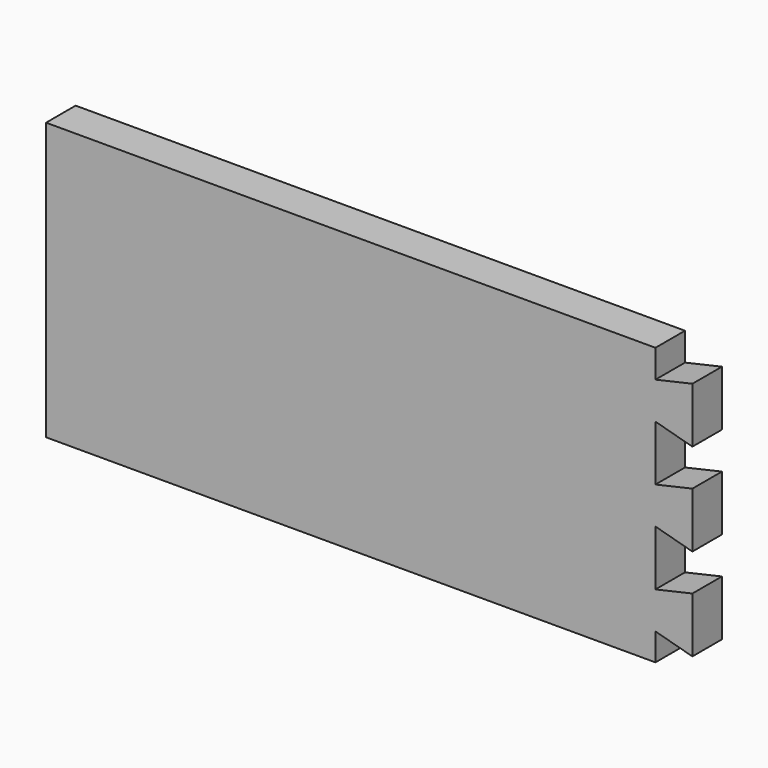
from build123d import *

# Parameters (mm, degrees)
F1_DEPTH = 20
F2_R     = 3.5
F3_DEPTH = 10


with BuildPart() as f1:
    # F0 (on Front) → F1 (new body)
    with BuildSketch(Plane.XZ):
        Polygon((-170.616764, -61.854899), (159.383236, -61.854899), (159.383236, -47.055752), (179.383236, -52.51336), (179.383236, -22.51336), (159.383236, -27.055752), (159.383236, 2.944248), (179.383236, -2.51336), (179.383236, 13.145101), (179.383236, 27.48664), (159.383236, 22.944248), (159.383236, 52.944248), (179.383236, 47.48664), (179.383236, 77.48664), (159.383236, 72.944248), (159.383236, 88.145101), (-170.616764, 88.145101), align=None)
    extrude(amount=F1_DEPTH)

    # F2 (on face) → F3 (cut)
    with BuildSketch(Plane(origin=(-170.616764, 0, 0), x_dir=(0, -1, 0), z_dir=(-1, 0, 0))):
        with Locations((10, 13.145101)):
            Circle(F2_R)
        with Locations((10, 43.145101)):
            Circle(F2_R)
        with Locations((10, -16.854899)):
            Circle(F2_R)
    extrude(amount=-F3_DEPTH, mode=Mode.SUBTRACT)


solid = f1.part
